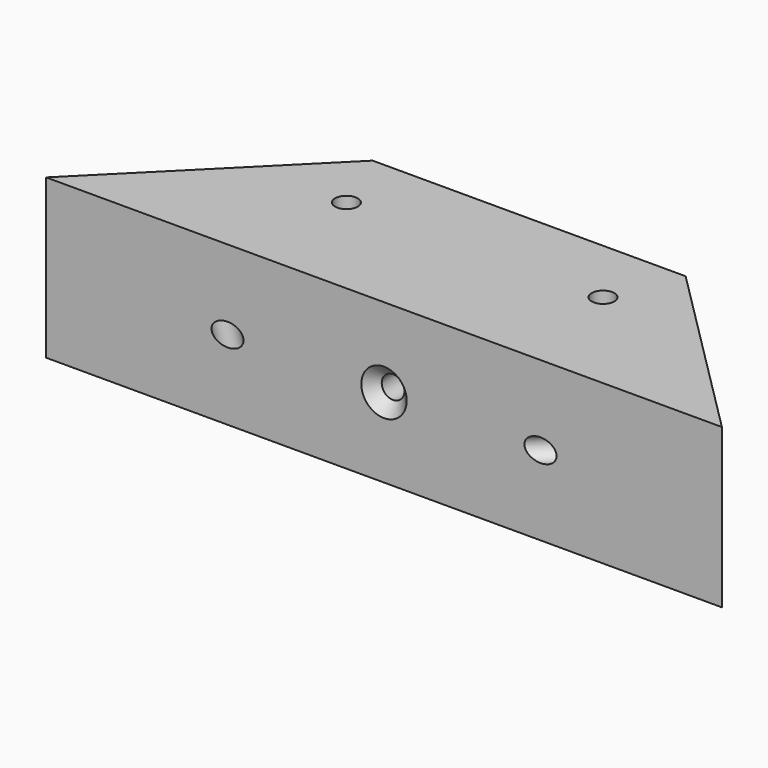
from build123d import *

# Parameters (mm, degrees)
F1_DEPTH       = 35
F3_D           = 5
F3_CSINK_D     = 10
F3_CSINK_ANGLE = 90
F6_D           = 5
F7_D           = 5
F9_D           = 5
F9_CSINK_D     = 10
F9_CSINK_ANGLE = 90


with BuildPart() as f1:
    # F0 (on Top) → F1 (new body)
    with BuildSketch(Plane.XY):
        Polygon((40, 40), (0, 0), (148.994949, 0), (108.994949, 40), align=None)
    extrude(amount=F1_DEPTH)

    # F3 (through all)
    with Locations(Plane.XZ):
        with Locations((74.497449, 17.5)):
            CounterSinkHole(F3_D / 2, F3_CSINK_D / 2, counter_sink_angle=F3_CSINK_ANGLE)

    # F6 (through all)
    with Locations(Plane(origin=(0, 0, 0), x_dir=(-0.707107, -0.707107, 0), z_dir=(-0.707107, 0.707107, 0))):
        with Locations((-28.284271, 17.5)):
            Hole(F6_D / 2)

    # F7 (through all)
    with Locations(Plane(origin=(74.497475, 74.497475, 0), x_dir=(-0.707107, 0.707107, 0), z_dir=(0.707107, 0.707107, 0))):
        with Locations((-77.071068, 17.5)):
            Hole(F7_D / 2)

    # F9 (through all)
    with Locations(Plane(origin=(0, 0, 0), x_dir=(1, 0, 0), z_dir=(0, 0, -1))):
        with Locations((102.781746, -25), (46.213203, -25)):
            CounterSinkHole(F9_D / 2, F9_CSINK_D / 2, counter_sink_angle=F9_CSINK_ANGLE)


solid = f1.part
